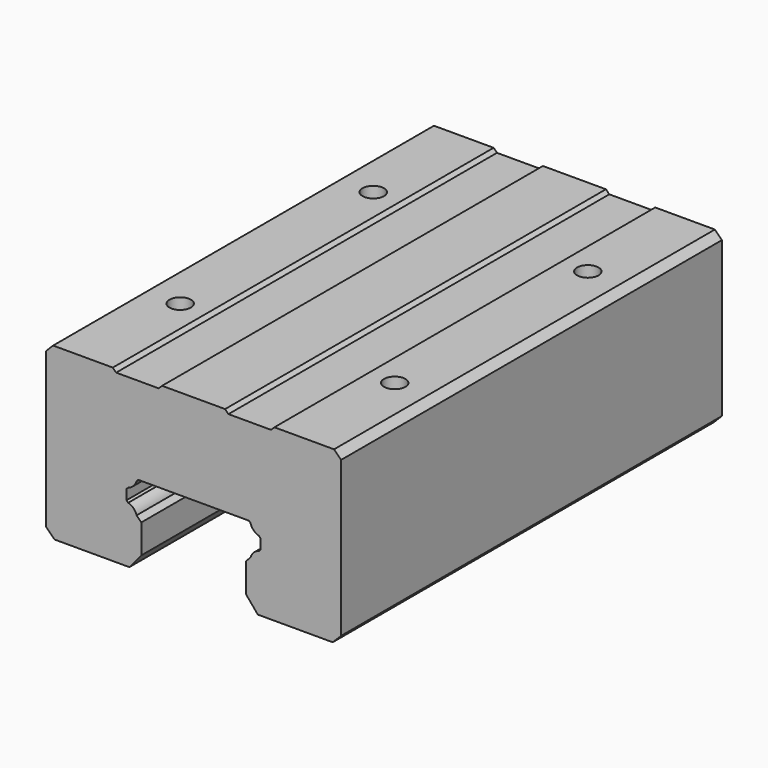
from build123d import *

# Parameters (mm, degrees)
F1_DEPTH = 71
F3_D     = 3.2
F3_DEPTH = 14.85
F3_TIP   = 0.9613769904


with BuildPart() as f1:
    # F0 (on Front) → F1 (new body)
    with BuildSketch(Plane.XZ):
        with BuildLine():
            Line((22.000012, -13.4738130626), (22.000012, 0.9761649373))
            Line((22.000012, 0.9761649373), (22.000012, 9.6261749373))
            Line((22.000012, 9.6261749373), (20.950012, 10.6761749374))
            Line((20.950012, 10.6761749374), (12.049988, 10.6761749373))
            Line((12.049988, 10.6761749373), (11.549988, 10.1761749373))
            Line((11.549988, 10.1761749373), (5.2, 10.1761749373))
            Line((5.2, 10.1761749373), (4.7, 10.6761749373))
            Line((4.7, 10.6761749373), (-4.7, 10.6761749373))
            Line((-4.7, 10.6761749373), (-5.2, 10.1761749373))
            Line((-5.2, 10.1761749373), (-11.549988, 10.1761749373))
            Line((-11.549988, 10.1761749373), (-12.049988, 10.6761749373))
            Line((-12.049988, 10.6761749373), (-20.950012, 10.6761749373))
            Line((-20.950012, 10.6761749373), (-22.000012, 9.6261749373))
            Line((-22.000012, 9.6261749373), (-22.000012, 0.9761649373))
            Line((-22.000012, 0.9761649373), (-22.000012, -13.4738130627))
            Line((-22.000012, -13.4738130627), (-20.75, -14.7238250627))
            Line((-20.75, -14.7238250627), (-9.5804297104, -14.7238250627))
            Line((-9.5804297104, -14.7238250627), (-7.8, -12.601991559))
            Line((-7.8, -12.601991559), (-7.8, -8.2738250627))
            Line((-7.8, -8.2738250627), (-8.502817534, -7.5710075287))
            ThreePointArc((-8.502817534, -7.5710075287), (-8.962563133, -6.7863881956), (-9.7471824661, -6.3266425966))
            Line((-9.7471824661, -6.3266425966), (-10, -6.0738250627))
            Line((-10, -6.0738250627), (-10, -4.5738250627))
            Line((-10, -4.5738250627), (-9.747182466, -4.3210075287))
            ThreePointArc((-9.747182466, -4.3210075287), (-8.962563133, -3.8612619297), (-8.502817534, -3.0766425966))
            Line((-8.502817534, -3.0766425966), (-8.25, -2.8238250627))
            Line((-8.25, -2.8238250627), (8.25, -2.8238250628))
            Line((8.25, -2.8238250628), (8.502817534, -3.0766425968))
            ThreePointArc((8.502817534, -3.0766425968), (8.9625631329, -3.8612619298), (9.747182466, -4.3210075287))
            Line((9.747182466, -4.3210075287), (10, -4.5738250627))
            Line((10, -4.5738250627), (10, -6.0738250627))
            Line((10, -6.0738250627), (9.747182466, -6.3266425966))
            ThreePointArc((9.747182466, -6.3266425966), (8.9625631329, -6.7863881956), (8.5028175339, -7.5710075287))
            Line((8.5028175339, -7.5710075287), (7.8, -8.2738250627))
            Line((7.8, -8.2738250627), (7.8, -12.601991559))
            Line((7.8, -12.601991559), (9.5804297104, -14.7238250627))
            Line((9.5804297104, -14.7238250627), (20.75, -14.7238250627))
            Line((20.75, -14.7238250627), (22.000012, -13.4738130626))
        make_face()
    extrude(amount=F1_DEPTH)

    # F3
    with Locations(Plane.XY.offset(10.6761749373)):
        with Locations((-16, -17.5), (-16, -53.5), (16, -53.5), (16, -17.5)):
            Hole(F3_D / 2, depth=F3_DEPTH)
            with Locations((0, 0, -(F3_DEPTH + F3_TIP / 2))):  # 118° drill point
                Cone(0, F3_D / 2, F3_TIP, mode=Mode.SUBTRACT)


solid = f1.part
